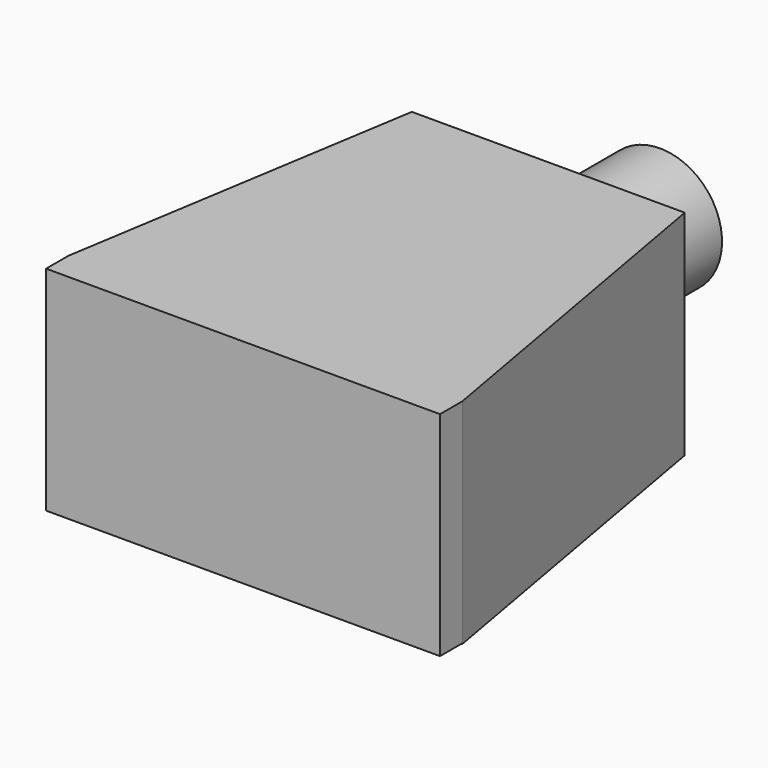
from build123d import *

# Parameters (mm, degrees)
F0_W     = 14.1024803743
F0_H     = 7.6268524863
F1_DEPTH = 1
F2_W     = 9.7692511044
F2_H     = 7.6268524863
F3_DEPTH = 12.8
F5_DEPTH = 7.65
F6_R     = 2.220289971
F7_DEPTH = 5


with BuildPart() as f1:
    # F0 (on Front) → F1 (new body)
    with BuildSketch(Plane.XZ):
        with Locations((7.0512401871, 3.8134262431)):
            Rectangle(F0_W, F0_H)
    extrude(amount=F1_DEPTH)

    # F2 (on face) → F3 (join)
    with BuildSketch(Plane(origin=(0, 0, 0), x_dir=(-1, 0, 0), z_dir=(0, 1, 0))):
        with Locations((-6.9386514369, 3.8134262431)):
            Rectangle(F2_W, F2_H)
    extrude(amount=F3_DEPTH)

    # F4 (on face) → F5 (join)
    with BuildSketch(Plane.XY.offset(7.6268524863)):
        Polygon((11.8232769892, 0), (14.1024803743, 0), (11.8232769892, 12.8), align=None)
        Polygon((2.0540258847, 0), (2.0540258847, 12.8), (0, 0), align=None)
    extrude(amount=-F5_DEPTH)

    # F6 (on face) → F7 (join)
    with BuildSketch(Plane(origin=(0, 12.8, 0), x_dir=(-1, 0, 0), z_dir=(0, 1, 0))):
        with Locations((-6.9386514369, 3.8134262431)):
            Circle(F6_R)
    extrude(amount=F7_DEPTH)


solid = f1.part
